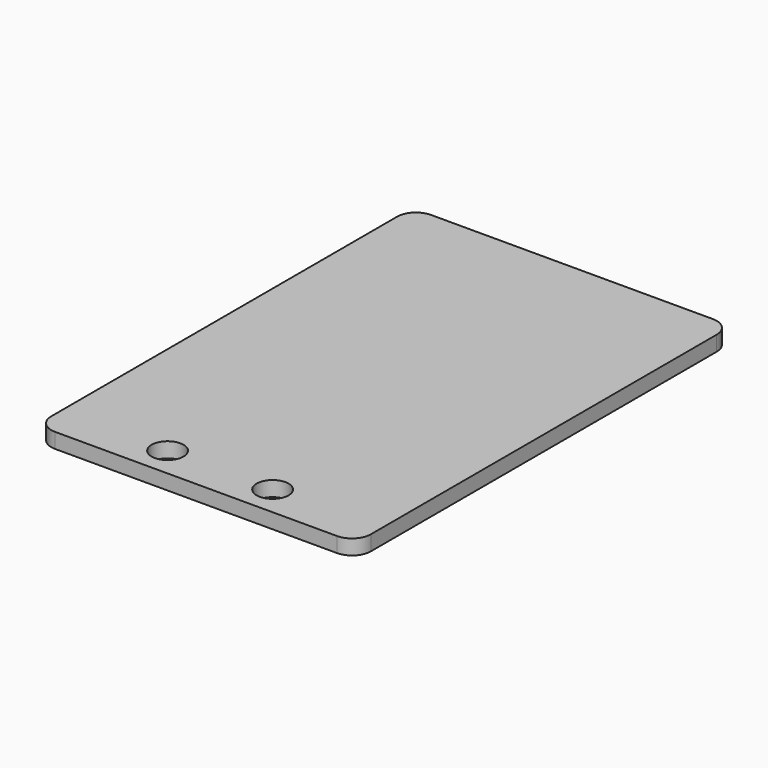
from build123d import *

# Parameters (mm, degrees)
SKETCH_W    = 34
SKETCH_H    = 50
PAD_DEPTH   = 1.6
SKETCH001_R = 1.7
HOLE_DEPTH  = 25
FILLET_R    = 2


with BuildPart() as part:
    # Sketch → Pad (new body)
    with BuildSketch(Plane.XY):
        Rectangle(SKETCH_W, SKETCH_H)
    extrude(amount=PAD_DEPTH)

    # Sketch001 (on Face6 of Pad) → Hole (cut)
    with BuildSketch(Plane.XY.offset(1.6)):
        with Locations((-5.588, -21.8)):
            Circle(SKETCH001_R)
        with Locations((5.588, -21.8)):
            Circle(SKETCH001_R)
    extrude(amount=-HOLE_DEPTH, mode=Mode.SUBTRACT)

    # Fillet
    fillet_edges = [part.edges().sort_by_distance(p)[0] for p in [
        (-17, 25, 0.8),
        (17, 25, 0.8),
        (17, -25, 0.8),
        (-17, -25, 0.8),
    ]]
    fillet(fillet_edges, radius=FILLET_R)


solid = part.part
